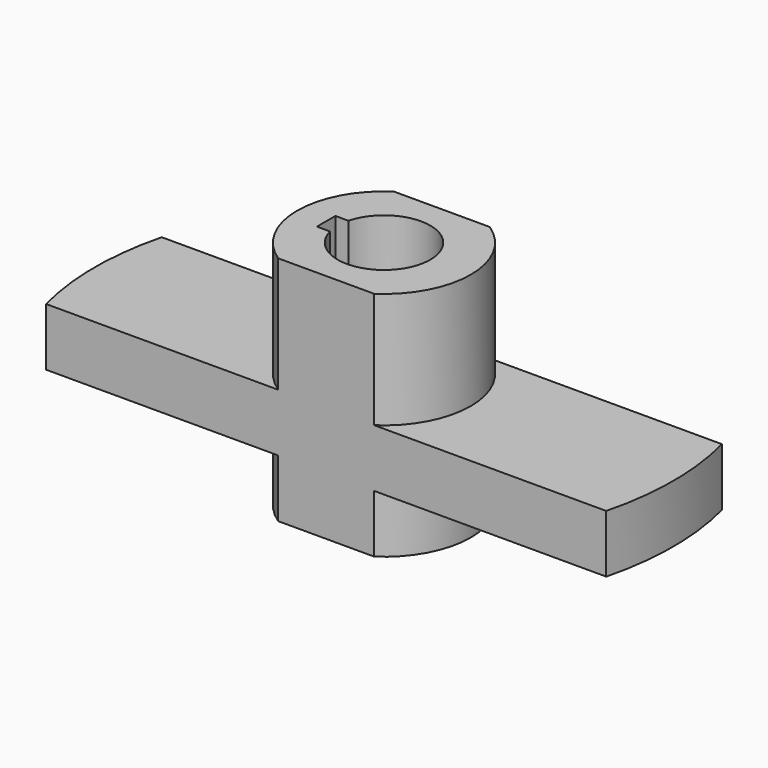
from build123d import *

# Parameters (mm, degrees)
F1_DEPTH      = 30
F1_DEPTH_BACK = 10
F2_DEPTH      = 10


with BuildPart() as f1:
    # F0 (on Top) → F1 (new body, two sides)
    with BuildSketch(Plane.XY) as f1_sk:
        with BuildLine():
            Line((8.291562, 12.5), (-8.291562, 12.5))
            ThreePointArc((-8.291562, 12.5), (-15, 0), (-8.291562, -12.5))
            Line((-8.291562, -12.5), (8.291562, -12.5))
            ThreePointArc((8.291562, -12.5), (15, 0), (8.291562, 12.5))
        make_face()
        with BuildLine():
            ThreePointArc((-7.745967, 2), (8, 0), (-7.745967, -2))
            Line((-7.745967, -2), (-10, -2))
            Line((-10, -2), (-10, 2))
            Line((-10, 2), (-7.745967, 2))
        make_face(mode=Mode.SUBTRACT)
    extrude(amount=F1_DEPTH)
    extrude(f1_sk.sketch, amount=-F1_DEPTH_BACK)

    # F0 (on Top) → F2 (join)
    with BuildSketch(Plane.XY):
        with BuildLine():
            Line((-8.291562, 12.5), (-48.412292, 12.5))
            ThreePointArc((-48.412292, 12.5), (-50, 0), (-48.412292, -12.5))
            Line((-48.412292, -12.5), (-8.291562, -12.5))
            ThreePointArc((-8.291562, -12.5), (-15, 0), (-8.291562, 12.5))
        make_face()
        with BuildLine():
            Line((48.412292, 12.5), (8.291562, 12.5))
            ThreePointArc((8.291562, 12.5), (15, 0), (8.291562, -12.5))
            Line((8.291562, -12.5), (48.412292, -12.5))
            ThreePointArc((48.412292, -12.5), (50, 0), (48.412292, 12.5))
        make_face()
    extrude(amount=F2_DEPTH)


solid = f1.part
